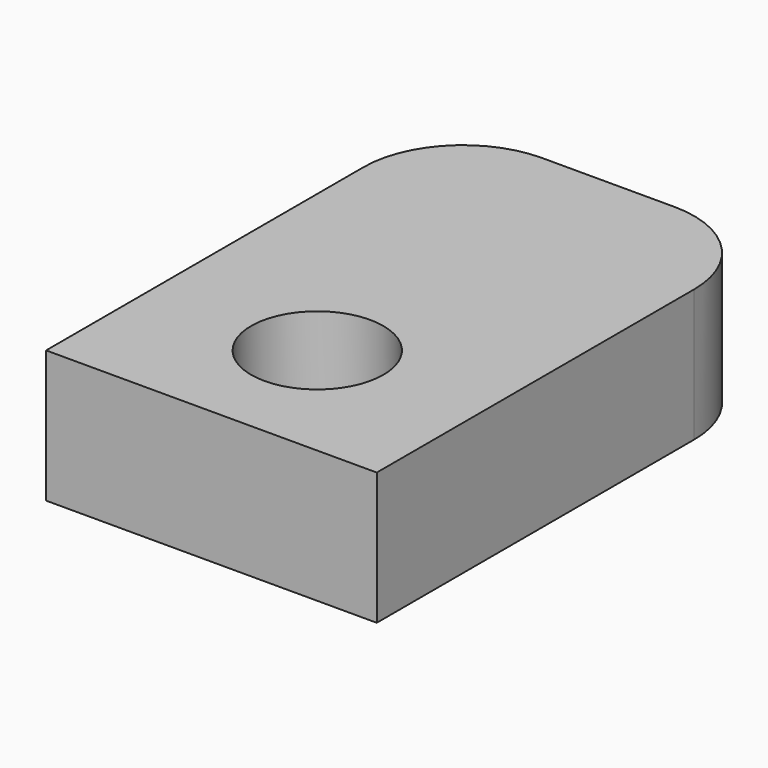
from build123d import *

# Parameters (mm, degrees)
F1_DEPTH = 4
F2_R     = 3


with BuildPart() as f1:
    # F0 (on Top) → F1 (new body)
    with BuildSketch(Plane.XY):
        Polygon((5, -7.5), (5, 7.5), (-5, 7.5), (-5, -7.5), (0, -7.5), align=None)
        with BuildLine():
            ThreePointArc((2, -3.5), (1.414214, -4.914214), (0, -5.5))
            ThreePointArc((0, -5.5), (-1.414214, -2.085786), (2, -3.5))
        make_face(mode=Mode.SUBTRACT)
    extrude(amount=F1_DEPTH)

    # F2
    f2_edges = [f1.edges().sort_by_distance(p)[0] for p in [
        (-5, 7.5, 2),
        (5, 7.5, 2),
    ]]
    fillet(f2_edges, radius=F2_R)


solid = f1.part
